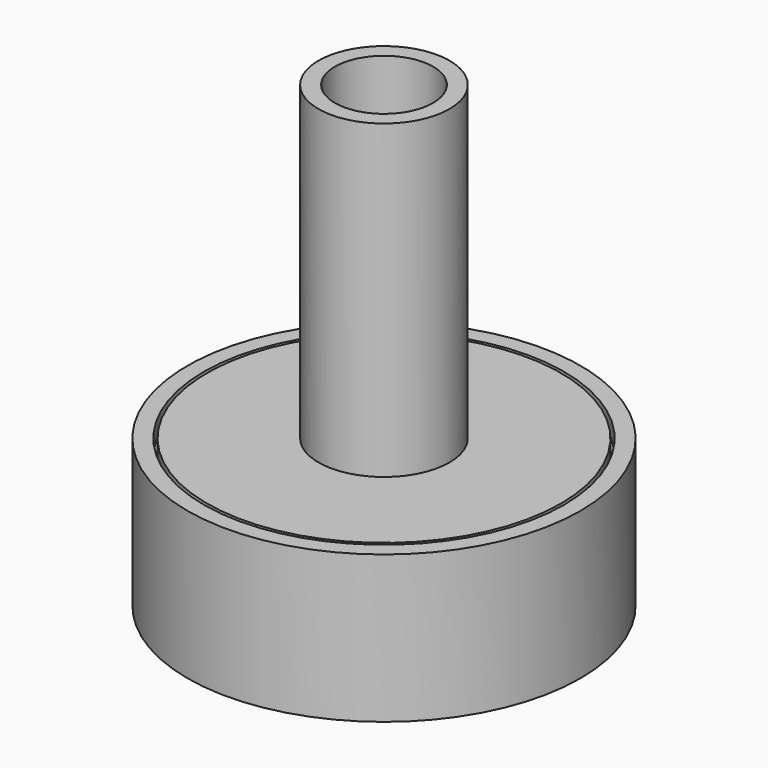
from build123d import *

# Parameters (mm, degrees)
CYLINDER158_R       = 3
CYLINDER158_DEPTH   = 23
CYLINDER161_R       = 10.8
CYLINDER161_DEPTH   = 1
CYLINDER159_R       = 4
CYLINDER159_DEPTH   = 20
CYLINDER157_R       = 2.25
CYLINDER157_DEPTH   = 7
CYLINDER156_R       = 1.2
CYLINDER156_DEPTH   = 14
CYLINDER147_R       = 1
CYLINDER147_DEPTH   = 1
ARRAY_COUNT         = 3
CYLINDER153_R       = 10
CYLINDER153_DEPTH   = 7
CUT_PLACEMENT_ANGLE = 180
CYLINDER160_R       = 11
CYLINDER160_DEPTH   = 4
CYLINDER_R          = 12
CYLINDER_DEPTH      = 9


with BuildPart() as cylinder001:
    # Cylinder158 → Cylinder158 (new body)
    with BuildSketch(Plane.XY.offset(8)):
        Circle(CYLINDER158_R)
    extrude(amount=CYLINDER158_DEPTH)


with BuildPart() as lid:
    # Cylinder161 → Cylinder161 (new body)
    with BuildSketch(Plane.XY.offset(8)):
        Circle(CYLINDER161_R)
    extrude(amount=CYLINDER161_DEPTH)


with BuildPart() as cut002:
    # Cylinder159 → Cylinder159 (new body)
    with BuildSketch(Plane.XY.offset(8)):
        Circle(CYLINDER159_R)
    extrude(amount=CYLINDER159_DEPTH)

    # Fusion001: union Lid
    add(lid.part)

    # Cut002: cut Cylinder001
    add(cylinder001.part, mode=Mode.SUBTRACT)


with BuildPart() as sealsubtraction:
    # Cylinder157 → Cylinder157 (new body)
    with BuildSketch(Plane.XY.offset(4.5)):
        Circle(CYLINDER157_R)
    extrude(amount=CYLINDER157_DEPTH)


with BuildPart() as bottomwireoutlet:
    # Cylinder156 → Cylinder156 (new body)
    with BuildSketch(Plane.XY.offset(-7)):
        Circle(CYLINDER156_R)
    extrude(amount=CYLINDER156_DEPTH)


with BuildPart() as sealarray:
    # Cylinder147 → Cylinder147 (new body)
    with BuildSketch(Plane.XY.offset(4.5)):
        Circle(CYLINDER147_R)
    extrude(amount=CYLINDER147_DEPTH)

    # Fusion: union SealSubtraction, BottomWireOutlet
    add(sealsubtraction.part)
    add(bottomwireoutlet.part)


with BuildPart() as sealarray_1:
    # Fusion placement: moved
    add(sealarray.part.moved(Location((4.25, 0, 0))))

    # Array: SealArray ×3 about axis
    array_axis = Axis((0, 0, 0), (0, 0, 1))


with BuildPart() as sealarray_2:
    add(sealarray_1.part)
    for i in range(1, ARRAY_COUNT):
        add(sealarray_1.part.rotate(array_axis, i * 360 / ARRAY_COUNT))


with BuildPart() as cut:
    # Cylinder153 → Cylinder153 (new body)
    with BuildSketch(Plane.XY.offset(1)):
        Circle(CYLINDER153_R)
    extrude(amount=CYLINDER153_DEPTH)

    # Cut: cut SealArray
    add(sealarray_2.part, mode=Mode.SUBTRACT)


with BuildPart() as cut_1:
    # Cut placement: moved
    add(cut.part.moved(Location((0, 0, 9))).rotate(Axis((0, 0, 9), (1, 0, 0)), CUT_PLACEMENT_ANGLE))


with BuildPart() as cylinder003:
    # Cylinder160 → Cylinder160 (new body)
    with BuildSketch(Plane.XY.offset(8)):
        Circle(CYLINDER160_R)
    extrude(amount=CYLINDER160_DEPTH)


with BuildPart() as cut003:
    # Cylinder → Cylinder (new body)
    with BuildSketch(Plane.XY):
        Circle(CYLINDER_R)
    extrude(amount=CYLINDER_DEPTH)

    # Cut001: cut Cylinder003
    add(cylinder003.part, mode=Mode.SUBTRACT)

    # Cut003: cut Cut
    add(cut_1.part, mode=Mode.SUBTRACT)


solid = Compound([cut002.part, cut003.part])
